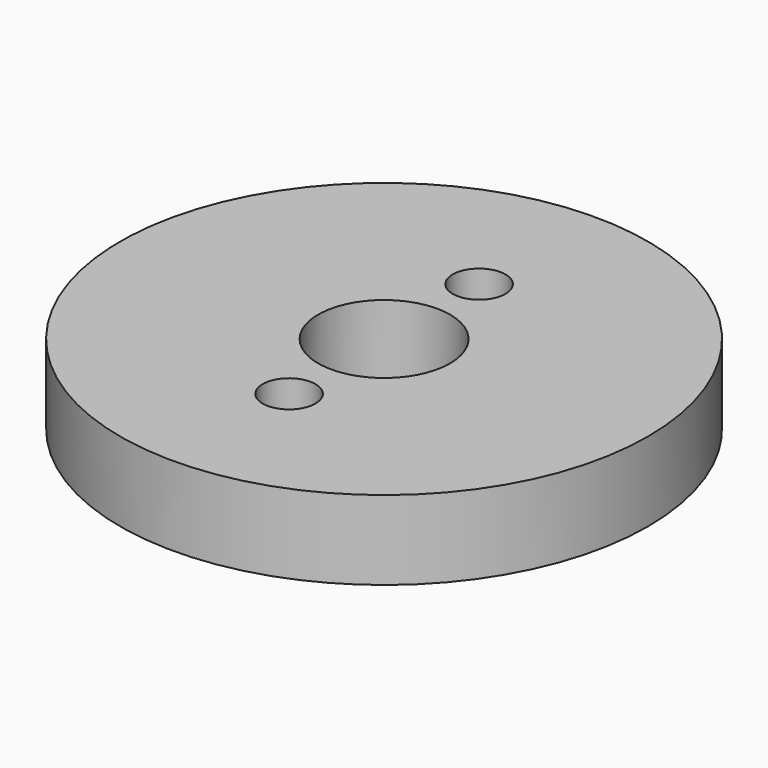
from build123d import *

# Parameters (mm, degrees)
SKETCH_R   = 10
SKETCH_R_2 = 1
SKETCH_R_3 = 2.5
PAD_DEPTH  = 3


with BuildPart() as part:
    # Sketch → Pad (new body)
    with BuildSketch(Plane.XY):
        Circle(SKETCH_R)
        with Locations((0, 4.5)):
            Circle(SKETCH_R_2, mode=Mode.SUBTRACT)
        with Locations((0, -4.5)):
            Circle(SKETCH_R_2, mode=Mode.SUBTRACT)
        Circle(SKETCH_R_3, mode=Mode.SUBTRACT)
    extrude(amount=PAD_DEPTH)


solid = part.part
